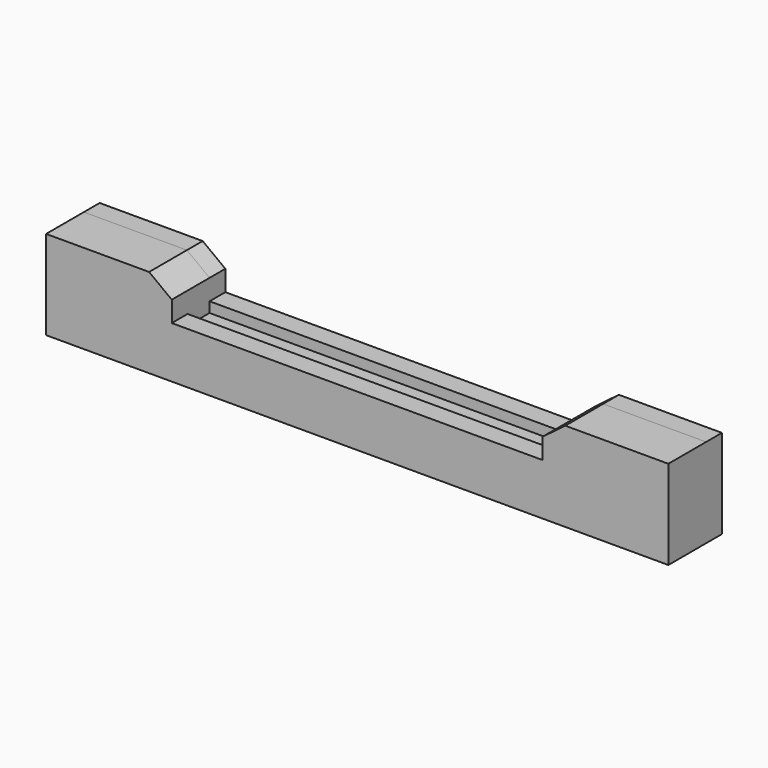
from build123d import *

# Parameters (mm, degrees)
F1_DEPTH = 349.25
F2_DEPTH = 146.05
F4_DEPTH = 76.2


with BuildPart() as f1:
    # F0 (on Front) → F1 (new body)
    with BuildSketch(Plane.XZ):
        Polygon((-1371.6, -127), (-1371.6, 0), (-1371.6, 101.6), (-1539.104342, 227.532463), (-2301.104342, 227.532463), (-2301.104342, -229.667537), (-2301.104342, -431.8), (0, -431.8), (0, -127), align=None)
        Polygon((1371.6, 101.6), (1371.6, 0), (1371.6, -127), (0, -127), (0, -431.8), (2301.104342, -431.8), (2301.104342, -229.667537), (2301.104342, 227.532463), (1539.104342, 227.532463), align=None)
    extrude(amount=F1_DEPTH)

    # F1_face (on face) → F2 (join)
    with BuildSketch(Plane(origin=(0, 0, -177.736676), x_dir=(1, 0, 0), z_dir=(0, 1, 0))):
        Polygon((-1371.6, -279.336676), (-1371.6, -50.736676), (1371.6, -50.736676), (1371.6, -279.336676), (1539.104342, -405.26914), (2301.104342, -405.26914), (2301.104342, 254.063324), (-2301.104342, 254.063324), (-2301.104342, -405.26914), (-1539.104342, -405.26914), align=None)
    extrude(amount=F2_DEPTH)

    # F3 (on face) → F4 (join)
    with BuildSketch(Plane.XY.offset(-127)):
        Polygon((1371.6, -349.25), (1371.6, -203.2), (-1369.649291, -203.2), (-1371.6, -203.2), (-1371.6, -349.25), (-791.898787, -349.25), align=None)
        Polygon((1371.6, 0), (1371.6, 146.05), (-791.898787, 146.05), (-1371.6, 146.05), (-1371.6, 0), (-1369.649291, 0), align=None)
    extrude(amount=F4_DEPTH)


solid = f1.part
